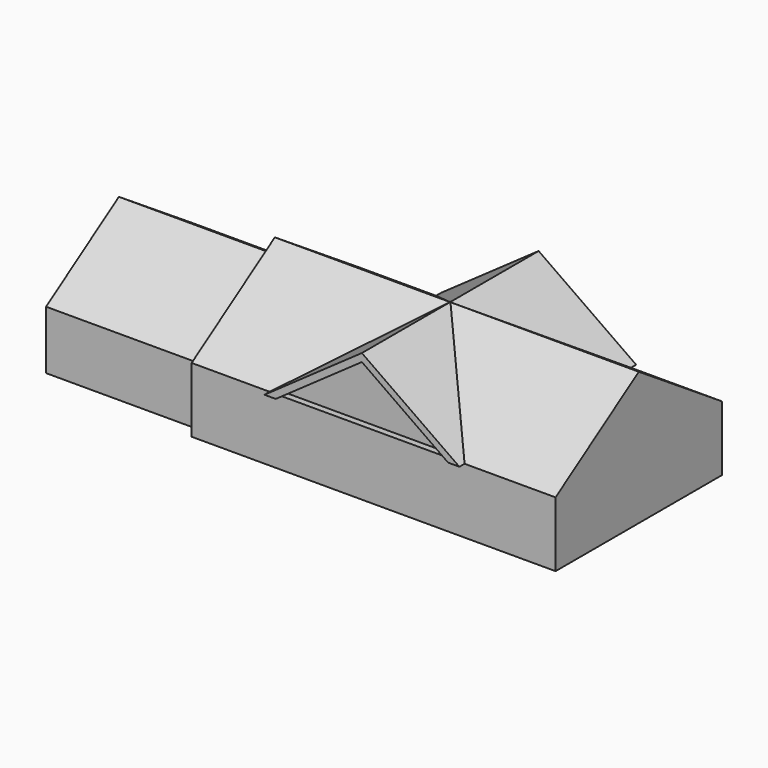
from build123d import *

# Parameters (mm, degrees)
F0_W      = 203.2
F0_H      = 25.4
F1_DEPTH  = 81.28
F3_DEPTH  = 203.2
F5_DEPTH  = 83.82
F6_DEPTH  = 78.74
F7_DEPTH  = 2.54
F8_DEPTH  = 2.54
F9_DEPTH  = 60.96
F11_DEPTH = 60.96


with BuildPart() as f1:
    # F0 (on Front) → F1 (new body)
    with BuildSketch(Plane.XZ):
        with Locations((-14.4892223179, -13.8418302595)):
            Rectangle(F0_W, F0_H)
    extrude(amount=-F1_DEPTH)

    # F2 (on face) → F3 (join)
    with BuildSketch(Plane.YZ.offset(87.1107776821)):
        Polygon((0, -1.1418302595), (81.28, -1.1418302595), (40.64, 25.5536600589), align=None)
    extrude(amount=-F3_DEPTH)

    # F4 (on face) → F5 (join)
    with BuildSketch(Plane.XZ):
        Polygon((13.4507776821, 25.6081018597), (-24.6492223179, -1.1418302595), (-20.2288646721, -1.1418302595), (13.4507776821, 22.5045777922), (47.1304200362, -1.1418302595), (51.5507776821, -1.1418302595), align=None)
    extrude(amount=-F5_DEPTH)

    # F4 (on face) → F6 (join)
    with BuildSketch(Plane.XZ):
        Polygon((13.4507776821, 22.5045777922), (-20.2288646721, -1.1418302595), (47.1304200362, -1.1418302595), align=None)
    extrude(amount=-F6_DEPTH)

    # F4 (on face) → F7 (cut)
    with BuildSketch(Plane.XZ):
        Polygon((13.4507776821, 22.5045777922), (-20.2288646721, -1.1418302595), (47.1304200362, -1.1418302595), align=None)
    extrude(amount=-F7_DEPTH, mode=Mode.SUBTRACT)

    # F4 (on face) → F8 (join)
    with BuildSketch(Plane.XZ):
        Polygon((13.4507776821, 25.6081018597), (-24.6492223179, -1.1418302595), (-20.2288646721, -1.1418302595), (13.4507776821, 22.5045777922), (47.1304200362, -1.1418302595), (51.5507776821, -1.1418302595), align=None)
    extrude(amount=F8_DEPTH)

    # F9 (cut): a face of the model
    f9_faces = [f1.faces().sort_by_distance(p)[0] for p in [
        (-116.0892223179, 40.64, -6.4016236214),
    ]]
    extrude(f9_faces, amount=-F9_DEPTH, mode=Mode.SUBTRACT)

    # F10 (on face) → F11 (join)
    with BuildSketch(Plane(origin=(-55.1292223179, 0, 0), x_dir=(0, -1, 0), z_dir=(-1, 0, 0))):
        Polygon((-40.64, 19.6767237691), (-76.2, -3.6818302595), (-76.2, -26.5418302595), (-5.08, -26.5418302595), (-5.08, -3.6818302595), align=None)
    extrude(amount=F11_DEPTH)


solid = f1.part
